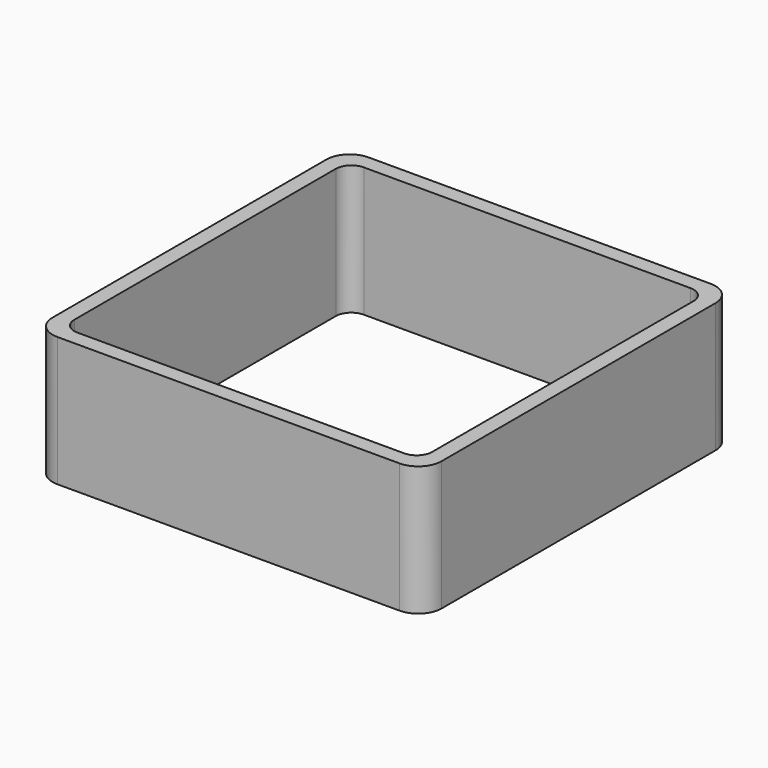
from build123d import *

# Parameters (mm, degrees)
EXTRUDE_DEPTH = 50


with BuildPart() as part:
    # Sketch → Extrude (new body)
    with BuildSketch(Plane.XY):
        with BuildLine():
            Line((-66, 75), (66, 75))
            ThreePointArc((75, 66), (72.363961, 72.363961), (66, 75))
            Line((75, 66), (75, -66))
            ThreePointArc((66, -75), (72.363961, -72.363961), (75, -66))
            Line((66, -75), (-66, -75))
            ThreePointArc((-75, -66), (-72.363961, -72.363961), (-66, -75))
            Line((-75, -66), (-75, 66))
            ThreePointArc((-66, 75), (-72.363961, 72.363961), (-75, 66))
        make_face()
        with BuildLine():
            Line((-63, 69), (63, 69))
            ThreePointArc((69, 63), (67.242641, 67.242641), (63, 69))
            Line((69, 63), (69, -63))
            ThreePointArc((63, -69), (67.242641, -67.242641), (69, -63))
            Line((63, -69), (-63, -69))
            ThreePointArc((-69, -63), (-67.242641, -67.242641), (-63, -69))
            Line((-69, -63), (-69, 63))
            ThreePointArc((-63, 69), (-67.242641, 67.242641), (-69, 63))
        make_face(mode=Mode.SUBTRACT)
    extrude(amount=EXTRUDE_DEPTH)


solid = part.part
